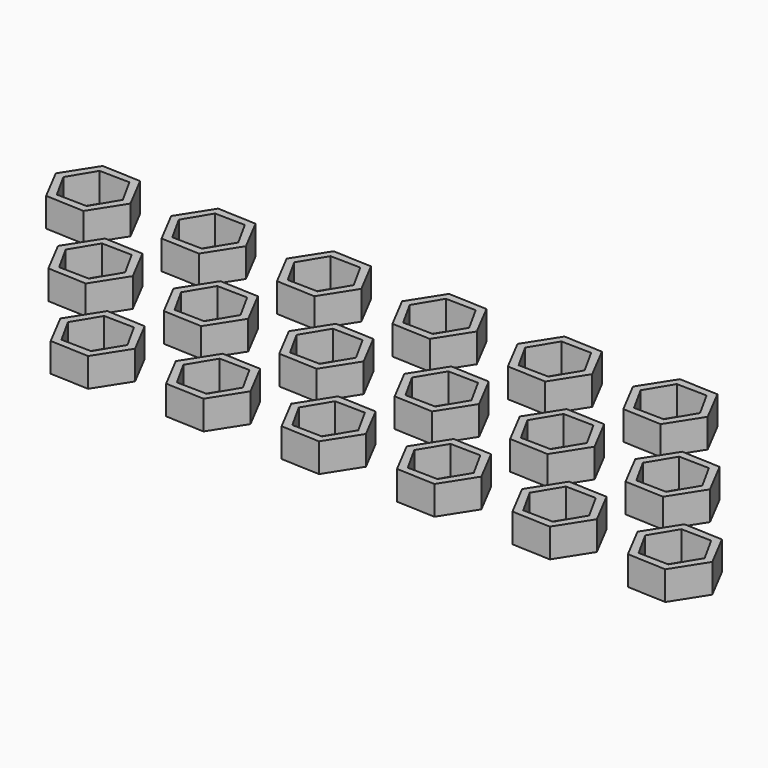
from build123d import *

# Parameters (mm, degrees)
F1_DEPTH = 10


with BuildPart() as f1:
    # F0 (on Top) → F1 (new body)
    with BuildSketch(Plane.XY):
        Polygon((-48.39082, 32.538821), (-54.585136, 44.463389), (-68.009273, 45.061237), (-75.239093, 33.734518), (-69.044776, 21.80995), (-55.62064, 21.212102), align=None)
        Polygon((-51.35366, 32.940631), (-56.754082, 23.978902), (-67.215379, 24.17494), (-72.276253, 33.332708), (-66.87583, 42.294437), (-56.414534, 42.098399), align=None, mode=Mode.SUBTRACT)
        Polygon((-8.39082, 32.538821), (-14.585136, 44.463389), (-28.009273, 45.061237), (-35.239093, 33.734518), (-29.044776, 21.80995), (-15.62064, 21.212102), align=None)
        Polygon((-16.414534, 42.098399), (-11.35366, 32.940631), (-16.754082, 23.978902), (-27.215379, 24.17494), (-32.276253, 33.332708), (-26.87583, 42.294437), align=None, mode=Mode.SUBTRACT)
        Polygon((31.60918, 32.538821), (25.414864, 44.463389), (11.990727, 45.061237), (4.760907, 33.734518), (10.955224, 21.80995), (24.37936, 21.212102), align=None)
        Polygon((23.585466, 42.098399), (28.64634, 32.940631), (23.245918, 23.978902), (12.784621, 24.17494), (7.723747, 33.332708), (13.12417, 42.294437), align=None, mode=Mode.SUBTRACT)
        Polygon((71.60918, 32.538821), (65.414864, 44.463389), (51.990727, 45.061237), (44.760907, 33.734518), (50.955224, 21.80995), (64.37936, 21.212102), align=None)
        Polygon((63.585466, 42.098399), (68.64634, 32.940631), (63.245918, 23.978902), (52.784621, 24.17494), (47.723747, 33.332708), (53.12417, 42.294437), align=None, mode=Mode.SUBTRACT)
        Polygon((111.60918, 32.538821), (105.414864, 44.463389), (91.990727, 45.061237), (84.760907, 33.734518), (90.955224, 21.80995), (104.37936, 21.212102), align=None)
        Polygon((103.585466, 42.098399), (108.64634, 32.940631), (103.245918, 23.978902), (92.784621, 24.17494), (87.723747, 33.332708), (93.12417, 42.294437), align=None, mode=Mode.SUBTRACT)
        Polygon((151.60918, 32.538821), (145.414864, 44.463389), (131.990727, 45.061237), (124.760907, 33.734518), (130.955224, 21.80995), (144.37936, 21.212102), align=None)
        Polygon((143.585466, 42.098399), (148.64634, 32.940631), (143.245918, 23.978902), (132.784621, 24.17494), (127.723747, 33.332708), (133.12417, 42.294437), align=None, mode=Mode.SUBTRACT)
        Polygon((172.45964, 11.653438), (159.035503, 12.251286), (151.805683, 0.924567), (158, -11), (171.424136, -11.597848), (178.653956, -0.271129), align=None)
        Polygon((160.168946, 9.484487), (170.630242, 9.288448), (175.691116, 0.130681), (170.290694, -8.831048), (159.829398, -8.63501), (154.768524, 0.522757), align=None, mode=Mode.SUBTRACT)
        Polygon((131.424136, -11.597848), (138.653956, -0.271129), (132.45964, 11.653438), (119.035503, 12.251286), (111.805683, 0.924567), (118, -11), align=None)
        Polygon((119.829398, -8.63501), (114.768524, 0.522757), (120.168946, 9.484487), (130.630242, 9.288448), (135.691116, 0.130681), (130.290694, -8.831048), align=None, mode=Mode.SUBTRACT)
        Polygon((98.653956, -0.271129), (92.45964, 11.653438), (79.035503, 12.251286), (71.805683, 0.924567), (78, -11), (91.424136, -11.597848), align=None)
        Polygon((80.168946, 9.484487), (90.630242, 9.288448), (95.691116, 0.130681), (90.290694, -8.831048), (79.829398, -8.63501), (74.768524, 0.522757), align=None, mode=Mode.SUBTRACT)
        Polygon((52.45964, 11.653438), (39.035503, 12.251286), (31.805683, 0.924567), (38, -11), (51.424136, -11.597848), (58.653956, -0.271129), align=None)
        Polygon((40.168946, 9.484487), (50.630242, 9.288448), (55.691116, 0.130681), (50.290694, -8.831048), (39.829398, -8.63501), (34.768524, 0.522757), align=None, mode=Mode.SUBTRACT)
        Polygon((-0.964497, 12.251286), (-8.194317, 0.924567), (-2, -11), (11.424136, -11.597848), (18.653956, -0.271129), (12.45964, 11.653438), align=None)
        Polygon((0.168946, 9.484487), (10.630242, 9.288448), (15.691116, 0.130681), (10.290694, -8.831048), (-0.170602, -8.63501), (-5.231476, 0.522757), align=None, mode=Mode.SUBTRACT)
        Polygon((-27.54036, 11.653438), (-40.964497, 12.251286), (-48.194317, 0.924567), (-42, -11), (-28.575864, -11.597848), (-21.346044, -0.271129), align=None)
        Polygon((-39.831054, 9.484487), (-29.369758, 9.288448), (-24.308884, 0.130681), (-29.709306, -8.831048), (-40.170602, -8.63501), (-45.231476, 0.522757), align=None, mode=Mode.SUBTRACT)
        Polygon((-0.495584, -21.156512), (-13.91972, -20.558664), (-21.14954, -31.885383), (-14.955224, -43.80995), (-1.531087, -44.407799), (5.698733, -33.08108), align=None)
        Polygon((-12.786278, -23.325464), (-2.324981, -23.521502), (2.735892, -32.67927), (-2.66453, -41.640999), (-13.125826, -41.444961), (-18.1867, -32.287193), align=None, mode=Mode.SUBTRACT)
        Polygon((26.08028, -20.558664), (18.85046, -31.885383), (25.044776, -43.80995), (38.468913, -44.407799), (45.698733, -33.08108), (39.504416, -21.156512), align=None)
        Polygon((27.213722, -23.325464), (37.675019, -23.521502), (42.735892, -32.67927), (37.33547, -41.640999), (26.874174, -41.444961), (21.8133, -32.287193), align=None, mode=Mode.SUBTRACT)
        Polygon((79.504416, -21.156512), (66.08028, -20.558664), (58.85046, -31.885383), (65.044776, -43.80995), (78.468913, -44.407799), (85.698733, -33.08108), align=None)
        Polygon((67.213722, -23.325464), (77.675019, -23.521502), (82.735892, -32.67927), (77.33547, -41.640999), (66.874174, -41.444961), (61.8133, -32.287193), align=None, mode=Mode.SUBTRACT)
        Polygon((125.698733, -33.08108), (119.504416, -21.156512), (106.08028, -20.558664), (98.85046, -31.885383), (105.044776, -43.80995), (118.468913, -44.407799), align=None)
        Polygon((107.213722, -23.325464), (117.675019, -23.521502), (122.735892, -32.67927), (117.33547, -41.640999), (106.874174, -41.444961), (101.8133, -32.287193), align=None, mode=Mode.SUBTRACT)
        Polygon((158.468913, -44.407799), (165.698733, -33.08108), (159.504416, -21.156512), (146.08028, -20.558664), (138.85046, -31.885383), (145.044776, -43.80995), align=None)
        Polygon((146.874174, -41.444961), (141.8133, -32.287193), (147.213722, -23.325464), (157.675019, -23.521502), (162.735892, -32.67927), (157.33547, -41.640999), align=None, mode=Mode.SUBTRACT)
        Polygon((199.504416, -21.156512), (186.08028, -20.558664), (178.85046, -31.885383), (185.044776, -43.80995), (198.468913, -44.407799), (205.698733, -33.08108), align=None)
        Polygon((187.213722, -23.325464), (197.675019, -23.521502), (202.735892, -32.67927), (197.33547, -41.640999), (186.874174, -41.444961), (181.8133, -32.287193), align=None, mode=Mode.SUBTRACT)
    extrude(amount=F1_DEPTH)


solid = f1.part
